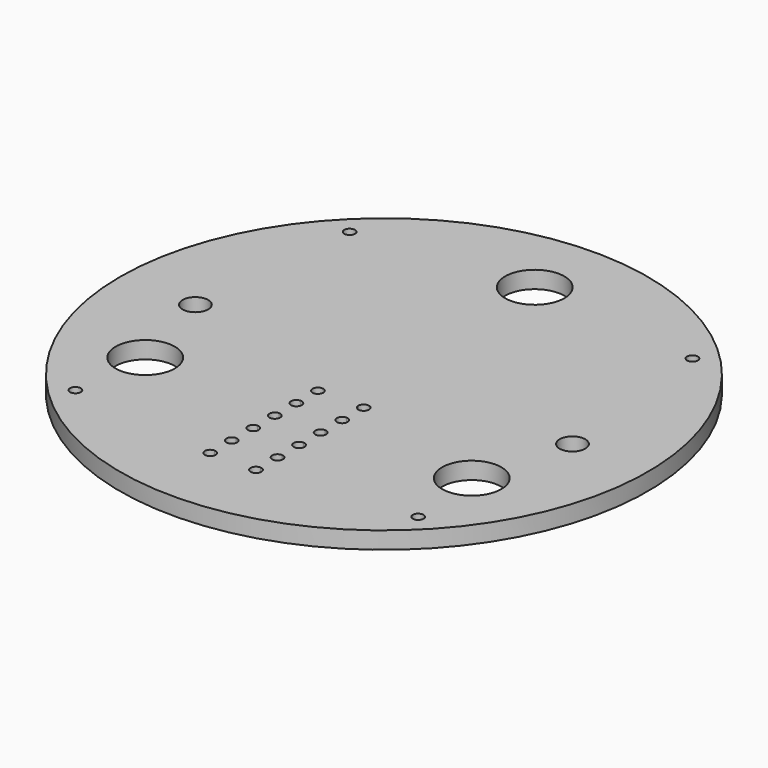
from build123d import *

# Parameters (mm, degrees)
F0_R     = 1
F0_R_2   = 5.5
F1_DEPTH = 3.175


with BuildPart() as f1:
    # F0 (on Top) → F1 (new body)
    with BuildSketch(Plane.XY):
        with BuildLine():
            Line((42.5, 0), (49, 0))
            ThreePointArc((49, 0), (0, 49), (-49, 0))
            Line((-49, 0), (-42.5, 0))
            ThreePointArc((-42.5, 0), (-35, 7.5), (-27.5, 0))
            Line((-27.5, 0), (0, 0))
            Line((0, 0), (27.5, 0))
            ThreePointArc((27.5, 0), (35, 7.5), (42.5, 0))
        make_face()
        Polygon((25.5, 6), (0, 6), (-25.5, 6), (-25.5, 18), (0, 18), (25.5, 18), align=None, mode=Mode.SUBTRACT)
        with Locations((-31.8198051534, 31.8198051534)):
            Circle(F0_R, mode=Mode.SUBTRACT)
        with BuildLine():
            ThreePointArc((5.5, 35), (3.8890872965, 31.1109127035), (0, 29.5))
            ThreePointArc((0, 29.5), (-3.8890872965, 38.8890872965), (5.5, 35))
        make_face(mode=Mode.SUBTRACT)
        with Locations((31.8198051534, 31.8198051534)):
            Circle(F0_R, mode=Mode.SUBTRACT)
        with BuildLine():
            ThreePointArc((-49, 0), (0, -49), (49, 0))
            Line((49, 0), (42.5, 0))
            ThreePointArc((42.5, 0), (35, -7.5), (27.5, 0))
            Line((27.5, 0), (0, 0))
            Line((0, 0), (-27.5, 0))
            ThreePointArc((-27.5, 0), (-35, -7.5), (-42.5, 0))
            Line((-42.5, 0), (-49, 0))
        make_face()
        with BuildLine():
            ThreePointArc((-30.8198051534, -31.8198051534), (-32.7436846859, -32.2024885858), (-31.1126983722, -31.1126983722))
            ThreePointArc((-31.1126983722, -31.1126983722), (-30.8959256209, -31.437121721), (-30.8198051534, -31.8198051534))
        make_face(mode=Mode.SUBTRACT)
        with BuildLine():
            ThreePointArc((-3.25, -35), (-4.9571067812, -35.7071067812), (-4.25, -34))
            ThreePointArc((-4.25, -34), (-3.5428932188, -34.2928932188), (-3.25, -35))
        make_face(mode=Mode.SUBTRACT)
        with BuildLine():
            ThreePointArc((-4.25, -31), (-5.25, -30), (-4.25, -29))
            ThreePointArc((-4.25, -29), (-3.5428932188, -29.2928932188), (-3.25, -30))
            ThreePointArc((-3.25, -30), (-3.5428932188, -30.7071067812), (-4.25, -31))
        make_face(mode=Mode.SUBTRACT)
        with BuildLine():
            ThreePointArc((-4.25, -26), (-5.25, -25), (-4.25, -24))
            ThreePointArc((-4.25, -24), (-3.5428932188, -24.2928932188), (-3.25, -25))
            ThreePointArc((-3.25, -25), (-3.5428932188, -25.7071067812), (-4.25, -26))
        make_face(mode=Mode.SUBTRACT)
        with Locations((-30.3108891325, -17.5)):
            Circle(F0_R_2, mode=Mode.SUBTRACT)
        with BuildLine():
            ThreePointArc((-4.25, -21), (-5.25, -20), (-4.25, -19))
            ThreePointArc((-4.25, -19), (-3.5428932188, -19.2928932188), (-3.25, -20))
            ThreePointArc((-3.25, -20), (-3.5428932188, -20.7071067812), (-4.25, -21))
        make_face(mode=Mode.SUBTRACT)
        with BuildLine():
            ThreePointArc((-4.25, -16), (-5.25, -15), (-4.25, -14))
            ThreePointArc((-4.25, -14), (-3.5428932188, -14.2928932188), (-3.25, -15))
            ThreePointArc((-3.25, -15), (-3.5428932188, -15.7071067812), (-4.25, -16))
        make_face(mode=Mode.SUBTRACT)
        with BuildLine():
            ThreePointArc((-4.25, -11), (-4.9571067812, -9.2928932188), (-3.25, -10))
            ThreePointArc((-3.25, -10), (-3.5428932188, -10.7071067812), (-4.25, -11))
        make_face(mode=Mode.SUBTRACT)
        with BuildLine():
            ThreePointArc((5.25, -35), (3.5428932188, -35.7071067812), (4.25, -34))
            ThreePointArc((4.25, -34), (4.9571067812, -34.2928932188), (5.25, -35))
        make_face(mode=Mode.SUBTRACT)
        with BuildLine():
            ThreePointArc((4.25, -31), (3.25, -30), (4.25, -29))
            ThreePointArc((4.25, -29), (4.9571067812, -29.2928932188), (5.25, -30))
            ThreePointArc((5.25, -30), (4.9571067812, -30.7071067812), (4.25, -31))
        make_face(mode=Mode.SUBTRACT)
        with BuildLine():
            ThreePointArc((4.25, -26), (3.25, -25), (4.25, -24))
            ThreePointArc((4.25, -24), (4.9571067812, -24.2928932188), (5.25, -25))
            ThreePointArc((5.25, -25), (4.9571067812, -25.7071067812), (4.25, -26))
        make_face(mode=Mode.SUBTRACT)
        with Locations((31.8198051534, -31.8198051534)):
            Circle(F0_R, mode=Mode.SUBTRACT)
        with BuildLine():
            ThreePointArc((4.25, -21), (3.25, -20), (4.25, -19))
            ThreePointArc((4.25, -19), (4.9571067812, -19.2928932188), (5.25, -20))
            ThreePointArc((5.25, -20), (4.9571067812, -20.7071067812), (4.25, -21))
        make_face(mode=Mode.SUBTRACT)
        with BuildLine():
            ThreePointArc((4.25, -16), (3.25, -15), (4.25, -14))
            ThreePointArc((4.25, -14), (4.9571067812, -14.2928932188), (5.25, -15))
            ThreePointArc((5.25, -15), (4.9571067812, -15.7071067812), (4.25, -16))
        make_face(mode=Mode.SUBTRACT)
        with BuildLine():
            ThreePointArc((4.25, -11), (3.5428932188, -10.7071067812), (3.25, -10))
            ThreePointArc((3.25, -10), (4.25, -9), (5.25, -10))
            ThreePointArc((5.25, -10), (4.9571067812, -10.7071067812), (4.25, -11))
        make_face(mode=Mode.SUBTRACT)
        with Locations((30.3108891325, -17.5)):
            Circle(F0_R_2, mode=Mode.SUBTRACT)
        Polygon((-25.5, 6), (0, 6), (0, 12), (0, 18), (-25.5, 18), align=None)
        Polygon((0, 12), (0, 6), (25.5, 6), (25.5, 18), (0, 18), align=None)
        with BuildLine():
            Line((-37.38, 0), (-42.5, 0))
            ThreePointArc((-42.5, 0), (-35, -7.5), (-27.5, 0))
            Line((-27.5, 0), (-32.62, 0))
            ThreePointArc((-32.62, 0), (-35, -2.38), (-37.38, 0))
        make_face()
        with BuildLine():
            ThreePointArc((-27.5, 0), (-35, 7.5), (-42.5, 0))
            Line((-42.5, 0), (-37.38, 0))
            ThreePointArc((-37.38, 0), (-35, 2.38), (-32.62, 0))
            Line((-32.62, 0), (-27.5, 0))
        make_face()
        with BuildLine():
            Line((37.38, 0), (42.5, 0))
            ThreePointArc((42.5, 0), (35, 7.5), (27.5, 0))
            Line((27.5, 0), (32.62, 0))
            ThreePointArc((32.62, 0), (35, 2.38), (37.38, 0))
        make_face()
        with BuildLine():
            ThreePointArc((27.5, 0), (35, -7.5), (42.5, 0))
            Line((42.5, 0), (37.38, 0))
            ThreePointArc((37.38, 0), (35, -2.38), (32.62, 0))
            Line((32.62, 0), (27.5, 0))
        make_face()
    extrude(amount=F1_DEPTH)


solid = f1.part
